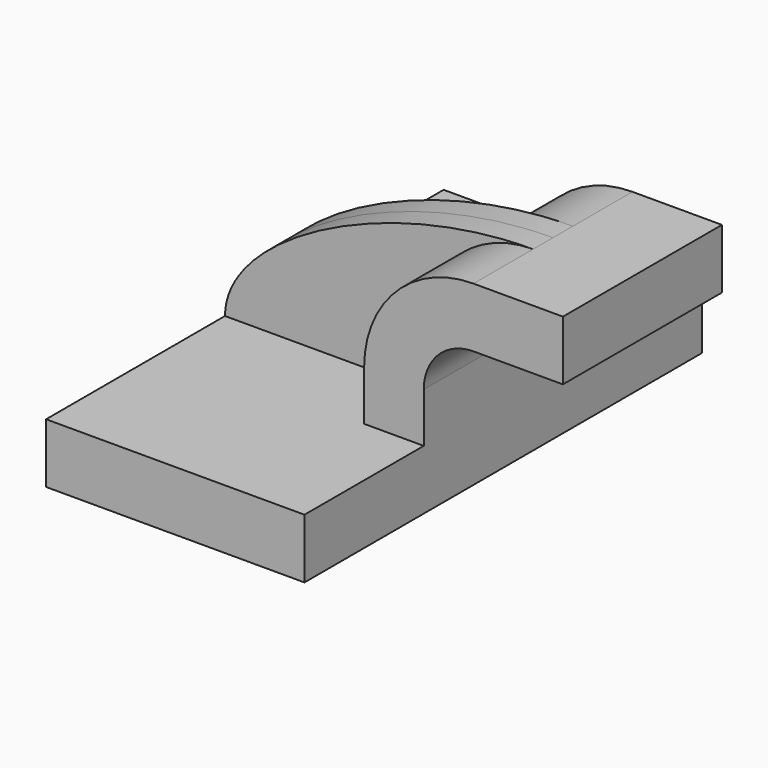
from build123d import *

# Parameters (mm, degrees)
F1_DEPTH = 62.5
F0_W     = 20
F0_H     = 15
F2_DEPTH = 25
F3_DEPTH = 6.25


with BuildPart() as f1:
    # F0 (on Front) → F1 (new body, symmetric)
    with BuildSketch(Plane.XZ):
        Polygon((17.5, 7.5), (-32.5, 7.5), (-32.5, -7.5), (32.5, -7.5), (32.5, 7.5), align=None)
    extrude(amount=F1_DEPTH, both=True)

    # F0 (on Front) → F2 (join, symmetric)
    with BuildSketch(Plane.XZ):
        with BuildLine():
            Line((17.5, 20), (17.5, 7.5))
            Line((17.5, 7.5), (32.5, 7.5))
            Line((32.5, 7.5), (32.5, 20))
            ThreePointArc((32.5, 20), (36.1611652352, 28.8388347648), (45, 32.5))
            Line((45, 32.5), (47.5, 32.5))
            Line((47.5, 32.5), (47.5, 47.5))
            Line((47.5, 47.5), (45, 47.5))
            ThreePointArc((45, 47.5), (25.5545635174, 39.4454364826), (17.5, 20))
        make_face()
        with Locations((57.5, 40)):
            Rectangle(F0_W, F0_H)
    extrude(amount=F2_DEPTH, both=True)

    # F0 (on Front) → F3 (join, symmetric)
    with BuildSketch(Plane.XZ):
        with BuildLine():
            add(Edge.make_bspline(
                [(-32.5, 7.5), (-32.5, 26.5529304743), (7.5689763762, 47.5), (45, 47.5)],
                knots=[0, 0, 0, 0, 87.2138177126, 87.2138177126, 87.2138177126, 87.2138177126], degree=3))
            Line((-32.5, 7.5), (17.5, 7.5))
            Line((17.5, 7.5), (17.5, 20))
            ThreePointArc((17.5, 20), (25.5545635174, 39.4454364826), (45, 47.5))
        make_face()
    extrude(amount=F3_DEPTH, both=True)


solid = f1.part
